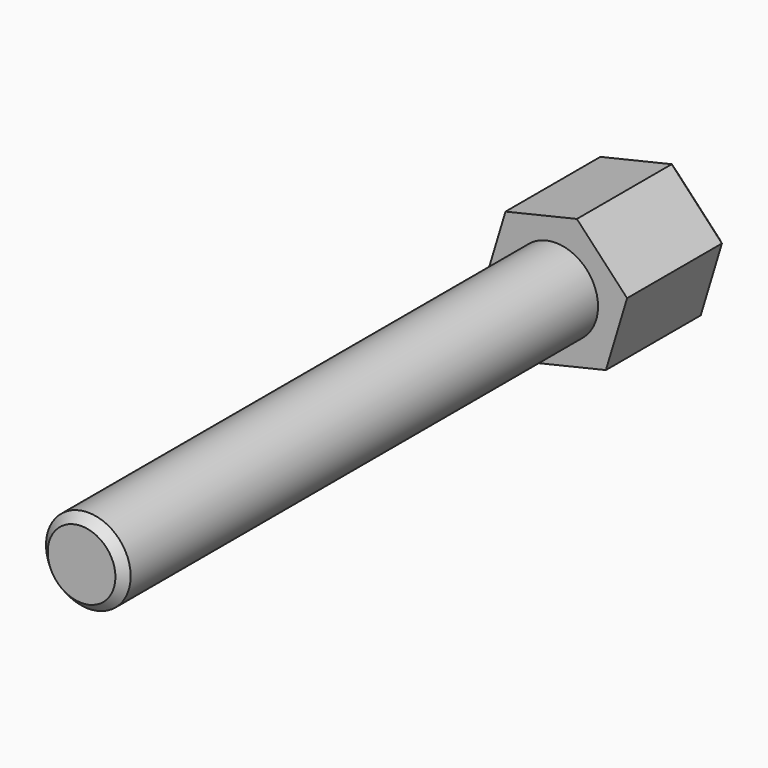
from build123d import *

# Parameters (mm, degrees)
F1_DEPTH = 19.05
F2_R     = 6.35
F3_DEPTH = 88.9
F4_SIZE  = 1.27


with BuildPart() as f1:
    # F0 (on Front) → F1 (new body)
    with BuildSketch(Plane.XZ):
        Polygon((3.178722, 10.529161), (-7.529159, 8.017435), (-10.707882, -2.511726), (-3.178722, -10.529161), (7.529159, -8.017435), (10.707882, 2.511726), align=None)
    extrude(amount=-F1_DEPTH)

    # F2 (on Front) → F3 (join)
    with BuildSketch(Plane.XZ):
        Circle(F2_R)
    extrude(amount=F3_DEPTH)

    # F4
    f4_edges = [f1.edges().sort_by_distance(p)[0] for p in [
        (-6.35, -88.9, 0),
        (-9.118521, 19.05, 2.752854),
        (-2.175218, 19.05, 9.273298),
        (-6.943302, 19.05, -6.520443),
        (2.175218, 19.05, -9.273298),
        (9.118521, 19.05, -2.752854),
        (6.943302, 19.05, 6.520443),
    ]]
    chamfer(f4_edges, length=F4_SIZE)


solid = f1.part
